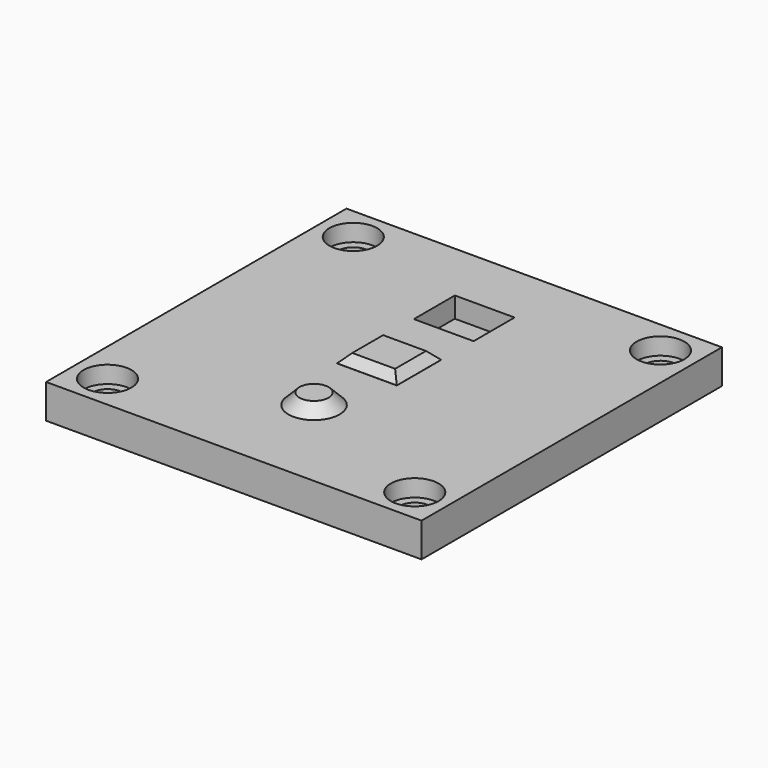
from build123d import *

# Parameters (mm, degrees)
BOX069_W          = 4
BOX069_H          = 3.5
BOX069_DEPTH      = 4
BOX065_W          = 7
BOX065_H          = 6.5
BOX065_DEPTH      = 3
CHAMFER_SIZE      = 0.99
BOX074_W          = 7
BOX074_H          = 6
BOX074_DEPTH      = 3
SKETCH001_W       = 30
SKETCH001_H       = 40
SKETCH001_W_2     = 28
SKETCH001_H_2     = 38
PAD001_DEPTH      = 2
CYLINDER015_R     = 2.8
CYLINDER015_DEPTH = 3
CYLINDER014_R     = 2.8
CYLINDER014_DEPTH = 3
CYLINDER013_R     = 2.8
CYLINDER013_DEPTH = 3
CYLINDER016_R     = 2.8
CYLINDER016_DEPTH = 3
BOX014_W          = 4
BOX014_H          = 3.5
BOX014_DEPTH      = 4
BOX015_W          = 4
BOX015_H          = 3.5
BOX015_DEPTH      = 4
CYLINDER010_R     = 1.8
CYLINDER010_DEPTH = 6
CYLINDER011_R     = 1.8
CYLINDER011_DEPTH = 6
CYLINDER012_R     = 1.8
CYLINDER012_DEPTH = 6
CYLINDER009_R     = 1.8
CYLINDER009_DEPTH = 6
BOX042_W          = 44
BOX042_H          = 44
BOX042_DEPTH      = 4


with BuildPart() as button2_box0002:
    # Box069 → Box069 (new body)
    with BuildSketch(Plane(origin=(13, 19, 19), x_dir=(1, 0, 0), z_dir=(0, 0, 1))):
        with Locations((2, 1.75)):
            Rectangle(BOX069_W, BOX069_H)
    extrude(amount=BOX069_DEPTH)


with BuildPart() as cut006:
    # Box065 → Box065 (new body)
    with BuildSketch(Plane(origin=(11.5, 17.5, 21), x_dir=(1, 0, 0), z_dir=(0, 0, 1))):
        with Locations((3.5, 3.25)):
            Rectangle(BOX065_W, BOX065_H)
    extrude(amount=BOX065_DEPTH)

    # Chamfer
    chamfer_edges = [cut006.edges().sort_by_distance(p)[0] for p in [
        (11.5, 20.75, 24),
        (18.5, 20.75, 24),
        (15, 17.5, 24),
        (15, 24, 24),
    ]]
    chamfer(chamfer_edges, length=CHAMFER_SIZE)

    # Cut006: cut Button2_box0002
    add(button2_box0002.part, mode=Mode.SUBTRACT)


with BuildPart() as cone001:
    # Cone001 → Cone001 (revolve)
    with BuildSketch(Plane(origin=(15, 9.75, 21), x_dir=(1, 0, 0), z_dir=(0, -1, 0))):
        Polygon((0, 0), (2.4, 0), (1.5, 1), (0, 1), align=None)
    revolve(axis=Axis((15, 9.75, 21), (0, 0, 1)))


with BuildPart() as button_top_cover001:
    # Cone → Cone (revolve)
    with BuildSketch(Plane(origin=(15, 9.75, 21), x_dir=(1, 0, 0), z_dir=(0, -1, 0))):
        Polygon((0, 0), (3, 0), (1.7, 1.3), (0, 1.3), align=None)
    revolve(axis=Axis((15, 9.75, 21), (0, 0, 1)))

    # Cut003: cut Cone001
    add(cone001.part, mode=Mode.SUBTRACT)


with BuildPart() as button_top_cover001_1:
    # Cut003 placement: moved
    add(button_top_cover001.part.moved(Location((0, 0, 2))))


with BuildPart() as box074:
    # Box074 → Box074 (new body)
    with BuildSketch(Plane(origin=(11.5, 28.75, 20.6), x_dir=(1, 0, 0), z_dir=(0, 0, 1))):
        with Locations((3.5, 3)):
            Rectangle(BOX074_W, BOX074_H)
    extrude(amount=BOX074_DEPTH)


with BuildPart() as gasket_cut:
    # Sketch001 → Pad001 (new body)
    with BuildSketch(Plane(origin=(2, 2, 19), x_dir=(1, 0, 0), z_dir=(0, 0, 1))):
        with Locations((13, 18)):
            Rectangle(SKETCH001_W, SKETCH001_H)
        with Locations((13, 18)):
            Rectangle(SKETCH001_W_2, SKETCH001_H_2, mode=Mode.SUBTRACT)
    extrude(amount=PAD001_DEPTH)


with BuildPart() as screw_head003:
    # Cylinder015 → Cylinder015 (new body)
    with BuildSketch(Plane(origin=(33, 38, 21), x_dir=(1, 0, 0), z_dir=(0, 0, 1))):
        Circle(CYLINDER015_R)
    extrude(amount=CYLINDER015_DEPTH)


with BuildPart() as screw_head002:
    # Cylinder014 → Cylinder014 (new body)
    with BuildSketch(Plane(origin=(-3, 38, 21), x_dir=(1, 0, 0), z_dir=(0, 0, 1))):
        Circle(CYLINDER014_R)
    extrude(amount=CYLINDER014_DEPTH)


with BuildPart() as screw_head001:
    # Cylinder013 → Cylinder013 (new body)
    with BuildSketch(Plane(origin=(-3, 2, 21), x_dir=(1, 0, 0), z_dir=(0, 0, 1))):
        Circle(CYLINDER013_R)
    extrude(amount=CYLINDER013_DEPTH)


with BuildPart() as screw_head_cut:
    # Cylinder016 → Cylinder016 (new body)
    with BuildSketch(Plane(origin=(33, 2, 21), x_dir=(1, 0, 0), z_dir=(0, 0, 1))):
        Circle(CYLINDER016_R)
    extrude(amount=CYLINDER016_DEPTH)

    # Fusion019: union Screw_head003, Screw_head002, Screw_head001
    add(screw_head003.part)
    add(screw_head002.part)
    add(screw_head001.part)


with BuildPart() as button1_box0001:
    # Box014 → Box014 (new body)
    with BuildSketch(Plane(origin=(13, 8, 19), x_dir=(1, 0, 0), z_dir=(0, 0, 1))):
        with Locations((2, 1.75)):
            Rectangle(BOX014_W, BOX014_H)
    extrude(amount=BOX014_DEPTH)


with BuildPart() as fusion004_cut:
    # Box015 → Box015 (new body)
    with BuildSketch(Plane(origin=(13, 19, 19), x_dir=(1, 0, 0), z_dir=(0, 0, 1))):
        with Locations((2, 1.75)):
            Rectangle(BOX015_W, BOX015_H)
    extrude(amount=BOX015_DEPTH)

    # Fusion004: union Button1_box0001
    add(button1_box0001.part)


with BuildPart() as obj1:
    # Cylinder010 → Cylinder010 (new body)
    with BuildSketch(Plane(origin=(-3, 38, 15), x_dir=(1, 0, 0), z_dir=(0, 0, 1))):
        Circle(CYLINDER010_R)
    extrude(amount=CYLINDER010_DEPTH)


with BuildPart() as obj2:
    # Cylinder011 → Cylinder011 (new body)
    with BuildSketch(Plane(origin=(33, 2, 15), x_dir=(1, 0, 0), z_dir=(0, 0, 1))):
        Circle(CYLINDER011_R)
    extrude(amount=CYLINDER011_DEPTH)


with BuildPart() as obj3:
    # Cylinder012 → Cylinder012 (new body)
    with BuildSketch(Plane(origin=(33, 38, 15), x_dir=(1, 0, 0), z_dir=(0, 0, 1))):
        Circle(CYLINDER012_R)
    extrude(amount=CYLINDER012_DEPTH)


with BuildPart() as top_cut:
    # Cylinder009 → Cylinder009 (new body)
    with BuildSketch(Plane(origin=(-3, 2, 15), x_dir=(1, 0, 0), z_dir=(0, 0, 1))):
        Circle(CYLINDER009_R)
    extrude(amount=CYLINDER009_DEPTH)

    # Fusion018: union obj1, obj2, obj3
    add(obj1.part)
    add(obj2.part)
    add(obj3.part)

    # Fusion020: union Gasket_cut, Screw_Head_cut, Fusion004_cut
    add(gasket_cut.part)
    add(screw_head_cut.part)
    add(fusion004_cut.part)


with BuildPart() as top_final:
    # Box042 → Box042 (new body)
    with BuildSketch(Plane(origin=(-7, -2, 19), x_dir=(1, 0, 0), z_dir=(0, 0, 1))):
        with Locations((22, 22)):
            Rectangle(BOX042_W, BOX042_H)
    extrude(amount=BOX042_DEPTH)

    # Cut004: cut top_cut
    add(top_cut.part, mode=Mode.SUBTRACT)

    # Cut010: cut Box074
    add(box074.part, mode=Mode.SUBTRACT)

    # Fusion025: union Cut006, Button_Top_cover001
    add(cut006.part)
    add(button_top_cover001_1.part)


solid = top_final.part
